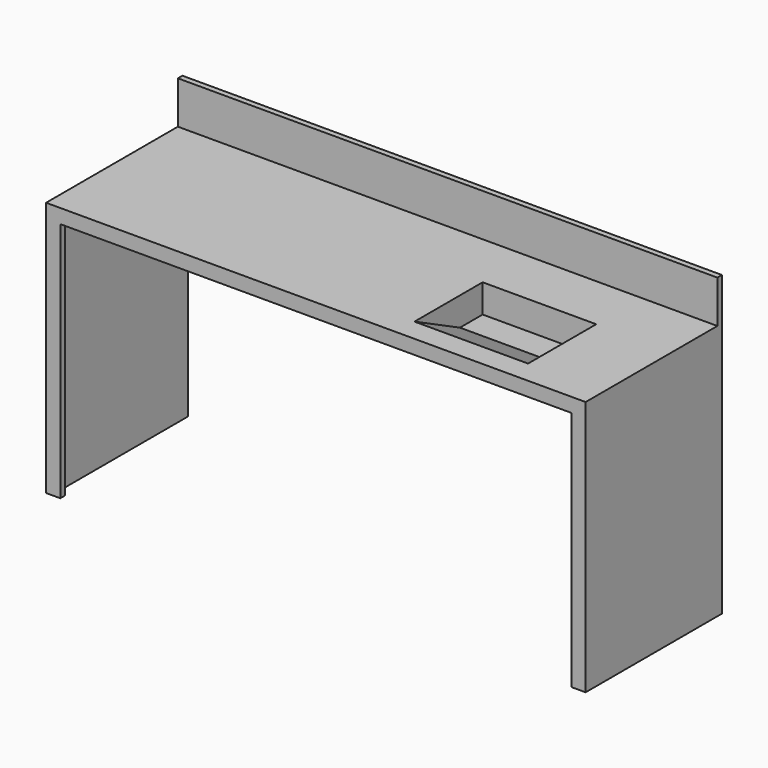
from build123d import *

# Parameters (mm, degrees)
SKETCH012_W      = 1860
SKETCH012_H      = 880
EXTRUDE019_DEPTH = 580
SKETCH011_W      = 1800
SKETCH011_H      = 850
EXTRUDE018_DEPTH = 20
SKETCH003_W      = 400
SKETCH003_H      = 300
EXTRUDE015_DEPTH = 20
SKETCH004_W      = 1900
SKETCH004_H      = 150
EXTRUDE017_DEPTH = 20
SKETCH_W         = 1900
SKETCH_H         = 900
EXTRUDE016_DEPTH = 600
EXTRUDE006_DEPTH = 400
EXTRUDE007_DEPTH = 440


with BuildPart() as extrude019:
    # Sketch012 → Extrude019 (new body)
    with BuildSketch(Plane.XZ):
        with Locations((930, 440)):
            Rectangle(SKETCH012_W, SKETCH012_H)
    extrude(amount=-EXTRUDE019_DEPTH)


with BuildPart() as extrude019_1:
    # Extrude019 placement: moved
    add(extrude019.part.moved(Location((20, 20, 0))))


with BuildPart() as obj1:
    # Sketch011 → Extrude018 (new body)
    with BuildSketch(Plane.XZ):
        with Locations((900, 425)):
            Rectangle(SKETCH011_W, SKETCH011_H)
    extrude(amount=-EXTRUDE018_DEPTH)


with BuildPart() as obj1_1:
    # Extrude018 placement: moved
    add(obj1.part.moved(Location((50, 0, 0))))


with BuildPart() as fusion016:
    # Sketch003 → Extrude015 (new body)
    with BuildSketch(Plane.XY):
        with Locations((200, 150)):
            Rectangle(SKETCH003_W, SKETCH003_H)
    extrude(amount=EXTRUDE015_DEPTH)


with BuildPart() as fusion016_1:
    # Extrude015 placement: moved
    add(fusion016.part.moved(Location((266.66, 80, 880))))

    # Fusion016: union Extrude019, obj1
    add(extrude019_1.part)
    add(obj1_1.part)


with BuildPart() as extrude017:
    # Sketch004 → Extrude017 (new body)
    with BuildSketch(Plane.XZ):
        with Locations((950, 75)):
            Rectangle(SKETCH004_W, SKETCH004_H)
    extrude(amount=EXTRUDE017_DEPTH)


with BuildPart() as extrude017_1:
    # Extrude017 placement: moved
    add(extrude017.part.moved(Location((0, 600, 900))))


with BuildPart() as cut013:
    # Sketch → Extrude016 (new body)
    with BuildSketch(Plane.XZ):
        with Locations((950, 450)):
            Rectangle(SKETCH_W, SKETCH_H)
    extrude(amount=-EXTRUDE016_DEPTH)

    # Fusion006: union Extrude017
    add(extrude017_1.part)

    # Cut013: cut Fusion016
    add(fusion016_1.part, mode=Mode.SUBTRACT)


with BuildPart() as extrude006:
    # Sketch006 → Extrude006 (new body)
    with BuildSketch(Plane.YZ):
        Polygon((0, 0), (300, 0), (300, -100), (200, -100), align=None)
    extrude(amount=EXTRUDE006_DEPTH)


with BuildPart() as obj2:
    # Sketch007 → Extrude007 (new body)
    with BuildSketch(Plane.YZ):
        Polygon((-40, 0), (320, 0), (320, -120), (200, -120), align=None)
    extrude(amount=EXTRUDE007_DEPTH)


with BuildPart() as obj2_1:
    # Extrude007 placement: moved
    add(obj2.part.moved(Location((-20, 0, 0))))

    # Cut006: cut Extrude006
    add(extrude006.part, mode=Mode.SUBTRACT)


with BuildPart() as obj2_2:
    # Cut006 placement: moved
    add(obj2_1.part.moved(Location((266.66, 80, 900))))

    # Fusion017: union Cut013
    add(cut013.part)


with BuildPart() as mirror001:
    # Mirror001: instance of obj2
    add(obj2_2.part.mirror(Plane(origin=(0, 0, 0), x_dir=(0, -1, 0), z_dir=(1, 0, 0))))


solid = mirror001.part
